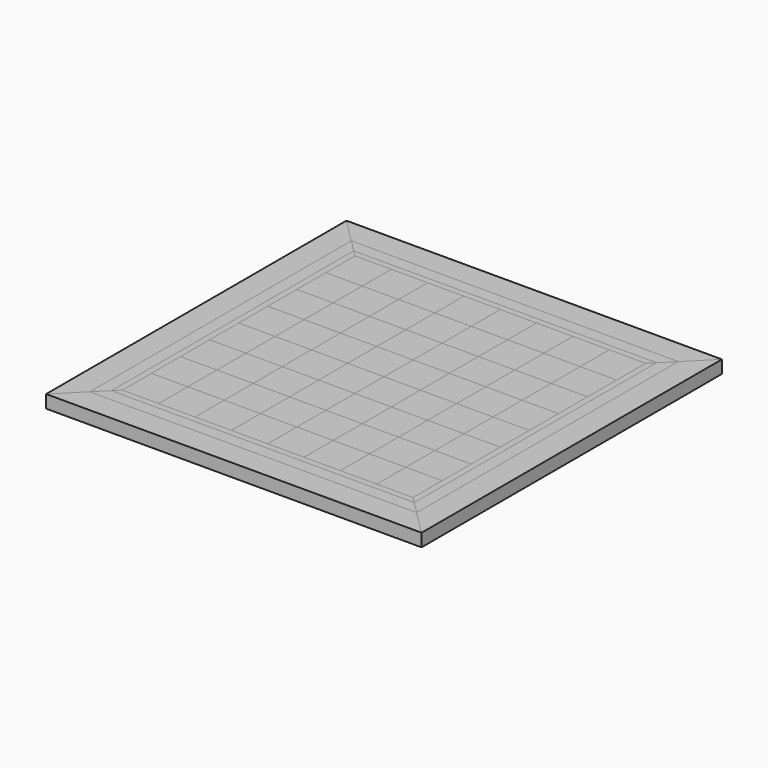
from build123d import *

# Parameters (mm, degrees)
F0_W      = 342.9
F0_H      = 342.9
F1_DEPTH  = 12.7
F2_W      = 38.1
F2_H      = 38.1
F3_DEPTH  = 0.79375
F4_DEPTH  = 0.79375
F5_DEPTH  = 0.79375
F6_DEPTH  = 0.79375
F8_DEPTH  = 13.49375
F9_DEPTH  = 13.49375
F11_DEPTH = 0.79375
F12_DEPTH = 0.79375


with BuildPart() as f1:
    # F0 (on Top) → F1 (new body)
    with BuildSketch(Plane.XY):
        Rectangle(F0_W, F0_H)
    extrude(amount=F1_DEPTH)


with BuildPart() as f3:
    # F2 (on face) → F3 (new body)
    with BuildSketch(Plane.XY.offset(12.7)):
        with Locations((133.35, 133.35)):
            Rectangle(F2_W, F2_H)
    extrude(amount=F3_DEPTH)


with BuildPart() as f3b:
    # F2 (on face) → F3, piece 2 (new body)
    with BuildSketch(Plane.XY.offset(12.7)):
        with Locations((133.35, 57.15)):
            Rectangle(F2_W, F2_H)
    extrude(amount=F3_DEPTH)


with BuildPart() as f3c:
    # F2 (on face) → F3, piece 3 (new body)
    with BuildSketch(Plane.XY.offset(12.7)):
        with Locations((133.35, -19.05)):
            Rectangle(F2_W, F2_H)
    extrude(amount=F3_DEPTH)


with BuildPart() as f3d:
    # F2 (on face) → F3, piece 4 (new body)
    with BuildSketch(Plane.XY.offset(12.7)):
        with Locations((133.35, -95.25)):
            Rectangle(F2_W, F2_H)
    extrude(amount=F3_DEPTH)


with BuildPart() as f3e:
    # F2 (on face) → F3, piece 5 (new body)
    with BuildSketch(Plane.XY.offset(12.7)):
        with Locations((95.25, -133.35)):
            Rectangle(F2_W, F2_H)
    extrude(amount=F3_DEPTH)


with BuildPart() as f3f:
    # F2 (on face) → F3, piece 6 (new body)
    with BuildSketch(Plane.XY.offset(12.7)):
        with Locations((95.25, -57.15)):
            Rectangle(F2_W, F2_H)
    extrude(amount=F3_DEPTH)


with BuildPart() as f3g:
    # F2 (on face) → F3, piece 7 (new body)
    with BuildSketch(Plane.XY.offset(12.7)):
        with Locations((95.25, 19.05)):
            Rectangle(F2_W, F2_H)
    extrude(amount=F3_DEPTH)


with BuildPart() as f3h:
    # F2 (on face) → F3, piece 8 (new body)
    with BuildSketch(Plane.XY.offset(12.7)):
        with Locations((95.25, 95.25)):
            Rectangle(F2_W, F2_H)
    extrude(amount=F3_DEPTH)


with BuildPart() as f3i:
    # F2 (on face) → F3, piece 9 (new body)
    with BuildSketch(Plane.XY.offset(12.7)):
        with Locations((57.15, 133.35)):
            Rectangle(F2_W, F2_H)
    extrude(amount=F3_DEPTH)


with BuildPart() as f3j:
    # F2 (on face) → F3, piece 10 (new body)
    with BuildSketch(Plane.XY.offset(12.7)):
        with Locations((57.15, 57.15)):
            Rectangle(F2_W, F2_H)
    extrude(amount=F3_DEPTH)


with BuildPart() as f3k:
    # F2 (on face) → F3, piece 11 (new body)
    with BuildSketch(Plane.XY.offset(12.7)):
        with Locations((57.15, -19.05)):
            Rectangle(F2_W, F2_H)
    extrude(amount=F3_DEPTH)


with BuildPart() as f3l:
    # F2 (on face) → F3, piece 12 (new body)
    with BuildSketch(Plane.XY.offset(12.7)):
        with Locations((57.15, -95.25)):
            Rectangle(F2_W, F2_H)
    extrude(amount=F3_DEPTH)


with BuildPart() as f3m:
    # F2 (on face) → F3, piece 13 (new body)
    with BuildSketch(Plane.XY.offset(12.7)):
        with Locations((19.05, 95.25)):
            Rectangle(F2_W, F2_H)
    extrude(amount=F3_DEPTH)


with BuildPart() as f3n:
    # F2 (on face) → F3, piece 14 (new body)
    with BuildSketch(Plane.XY.offset(12.7)):
        with Locations((19.05, 19.05)):
            Rectangle(F2_W, F2_H)
    extrude(amount=F3_DEPTH)


with BuildPart() as f3o:
    # F2 (on face) → F3, piece 15 (new body)
    with BuildSketch(Plane.XY.offset(12.7)):
        with Locations((19.05, -57.15)):
            Rectangle(F2_W, F2_H)
    extrude(amount=F3_DEPTH)


with BuildPart() as f3p:
    # F2 (on face) → F3, piece 16 (new body)
    with BuildSketch(Plane.XY.offset(12.7)):
        with Locations((19.05, -133.35)):
            Rectangle(F2_W, F2_H)
    extrude(amount=F3_DEPTH)


with BuildPart() as f3q:
    # F2 (on face) → F3, piece 17 (new body)
    with BuildSketch(Plane.XY.offset(12.7)):
        with Locations((-19.05, -95.25)):
            Rectangle(F2_W, F2_H)
    extrude(amount=F3_DEPTH)


with BuildPart() as f3r:
    # F2 (on face) → F3, piece 18 (new body)
    with BuildSketch(Plane.XY.offset(12.7)):
        with Locations((-19.05, -19.05)):
            Rectangle(F2_W, F2_H)
    extrude(amount=F3_DEPTH)


with BuildPart() as f3s:
    # F2 (on face) → F3, piece 19 (new body)
    with BuildSketch(Plane.XY.offset(12.7)):
        with Locations((-19.05, 57.15)):
            Rectangle(F2_W, F2_H)
    extrude(amount=F3_DEPTH)


with BuildPart() as f3t:
    # F2 (on face) → F3, piece 20 (new body)
    with BuildSketch(Plane.XY.offset(12.7)):
        with Locations((-19.05, 133.35)):
            Rectangle(F2_W, F2_H)
    extrude(amount=F3_DEPTH)


with BuildPart() as f3u:
    # F2 (on face) → F3, piece 21 (new body)
    with BuildSketch(Plane.XY.offset(12.7)):
        with Locations((-57.15, 95.25)):
            Rectangle(F2_W, F2_H)
    extrude(amount=F3_DEPTH)


with BuildPart() as f3v:
    # F2 (on face) → F3, piece 22 (new body)
    with BuildSketch(Plane.XY.offset(12.7)):
        with Locations((-57.15, 19.05)):
            Rectangle(F2_W, F2_H)
    extrude(amount=F3_DEPTH)


with BuildPart() as f3w:
    # F2 (on face) → F3, piece 23 (new body)
    with BuildSketch(Plane.XY.offset(12.7)):
        with Locations((-57.15, -57.15)):
            Rectangle(F2_W, F2_H)
    extrude(amount=F3_DEPTH)


with BuildPart() as f3x:
    # F2 (on face) → F3, piece 24 (new body)
    with BuildSketch(Plane.XY.offset(12.7)):
        with Locations((-57.15, -133.35)):
            Rectangle(F2_W, F2_H)
    extrude(amount=F3_DEPTH)


with BuildPart() as f3y:
    # F2 (on face) → F3, piece 25 (new body)
    with BuildSketch(Plane.XY.offset(12.7)):
        with Locations((-95.25, -95.25)):
            Rectangle(F2_W, F2_H)
    extrude(amount=F3_DEPTH)


with BuildPart() as f3z:
    # F2 (on face) → F3, piece 26 (new body)
    with BuildSketch(Plane.XY.offset(12.7)):
        with Locations((-95.25, -19.05)):
            Rectangle(F2_W, F2_H)
    extrude(amount=F3_DEPTH)


with BuildPart() as f3ba:
    # F2 (on face) → F3, piece 27 (new body)
    with BuildSketch(Plane.XY.offset(12.7)):
        with Locations((-95.25, 57.15)):
            Rectangle(F2_W, F2_H)
    extrude(amount=F3_DEPTH)


with BuildPart() as f3bb:
    # F2 (on face) → F3, piece 28 (new body)
    with BuildSketch(Plane.XY.offset(12.7)):
        with Locations((-95.25, 133.35)):
            Rectangle(F2_W, F2_H)
    extrude(amount=F3_DEPTH)


with BuildPart() as f3bc:
    # F2 (on face) → F3, piece 29 (new body)
    with BuildSketch(Plane.XY.offset(12.7)):
        with Locations((-133.35, 95.25)):
            Rectangle(F2_W, F2_H)
    extrude(amount=F3_DEPTH)


with BuildPart() as f3bd:
    # F2 (on face) → F3, piece 30 (new body)
    with BuildSketch(Plane.XY.offset(12.7)):
        with Locations((-133.35, 19.05)):
            Rectangle(F2_W, F2_H)
    extrude(amount=F3_DEPTH)


with BuildPart() as f3be:
    # F2 (on face) → F3, piece 31 (new body)
    with BuildSketch(Plane.XY.offset(12.7)):
        with Locations((-133.35, -57.15)):
            Rectangle(F2_W, F2_H)
    extrude(amount=F3_DEPTH)


with BuildPart() as f3bf:
    # F2 (on face) → F3, piece 32 (new body)
    with BuildSketch(Plane.XY.offset(12.7)):
        with Locations((-133.35, -133.35)):
            Rectangle(F2_W, F2_H)
    extrude(amount=F3_DEPTH)


with BuildPart() as f4:
    # F2 (on face) → F4 (new body)
    with BuildSketch(Plane.XY.offset(12.7)):
        with Locations((133.35, 95.25)):
            Rectangle(F2_W, F2_H)
    extrude(amount=F4_DEPTH)


with BuildPart() as f4b:
    # F2 (on face) → F4, piece 2 (new body)
    with BuildSketch(Plane.XY.offset(12.7)):
        with Locations((133.35, 19.05)):
            Rectangle(F2_W, F2_H)
    extrude(amount=F4_DEPTH)


with BuildPart() as f4c:
    # F2 (on face) → F4, piece 3 (new body)
    with BuildSketch(Plane.XY.offset(12.7)):
        with Locations((133.35, -57.15)):
            Rectangle(F2_W, F2_H)
    extrude(amount=F4_DEPTH)


with BuildPart() as f4d:
    # F2 (on face) → F4, piece 4 (new body)
    with BuildSketch(Plane.XY.offset(12.7)):
        with Locations((133.35, -133.35)):
            Rectangle(F2_W, F2_H)
    extrude(amount=F4_DEPTH)


with BuildPart() as f4e:
    # F2 (on face) → F4, piece 5 (new body)
    with BuildSketch(Plane.XY.offset(12.7)):
        with Locations((95.25, -19.05)):
            Rectangle(F2_W, F2_H)
    extrude(amount=F4_DEPTH)


with BuildPart() as f4f:
    # F2 (on face) → F4, piece 6 (new body)
    with BuildSketch(Plane.XY.offset(12.7)):
        with Locations((95.25, 57.15)):
            Rectangle(F2_W, F2_H)
    extrude(amount=F4_DEPTH)


with BuildPart() as f4g:
    # F2 (on face) → F4, piece 7 (new body)
    with BuildSketch(Plane.XY.offset(12.7)):
        with Locations((95.25, 133.35)):
            Rectangle(F2_W, F2_H)
    extrude(amount=F4_DEPTH)


with BuildPart() as f4h:
    # F2 (on face) → F4, piece 8 (new body)
    with BuildSketch(Plane.XY.offset(12.7)):
        with Locations((57.15, 95.25)):
            Rectangle(F2_W, F2_H)
    extrude(amount=F4_DEPTH)


with BuildPart() as f4i:
    # F2 (on face) → F4, piece 9 (new body)
    with BuildSketch(Plane.XY.offset(12.7)):
        with Locations((57.15, 19.05)):
            Rectangle(F2_W, F2_H)
    extrude(amount=F4_DEPTH)


with BuildPart() as f4j:
    # F2 (on face) → F4, piece 10 (new body)
    with BuildSketch(Plane.XY.offset(12.7)):
        with Locations((57.15, -57.15)):
            Rectangle(F2_W, F2_H)
    extrude(amount=F4_DEPTH)


with BuildPart() as f4k:
    # F2 (on face) → F4, piece 11 (new body)
    with BuildSketch(Plane.XY.offset(12.7)):
        with Locations((57.15, -133.35)):
            Rectangle(F2_W, F2_H)
    extrude(amount=F4_DEPTH)


with BuildPart() as f4l:
    # F2 (on face) → F4, piece 12 (new body)
    with BuildSketch(Plane.XY.offset(12.7)):
        with Locations((95.25, -95.25)):
            Rectangle(F2_W, F2_H)
    extrude(amount=F4_DEPTH)


with BuildPart() as f4m:
    # F2 (on face) → F4, piece 13 (new body)
    with BuildSketch(Plane.XY.offset(12.7)):
        with Locations((19.05, -95.25)):
            Rectangle(F2_W, F2_H)
    extrude(amount=F4_DEPTH)


with BuildPart() as f4n:
    # F2 (on face) → F4, piece 14 (new body)
    with BuildSketch(Plane.XY.offset(12.7)):
        with Locations((19.05, -19.05)):
            Rectangle(F2_W, F2_H)
    extrude(amount=F4_DEPTH)


with BuildPart() as f4o:
    # F2 (on face) → F4, piece 15 (new body)
    with BuildSketch(Plane.XY.offset(12.7)):
        with Locations((19.05, 57.15)):
            Rectangle(F2_W, F2_H)
    extrude(amount=F4_DEPTH)


with BuildPart() as f4p:
    # F2 (on face) → F4, piece 16 (new body)
    with BuildSketch(Plane.XY.offset(12.7)):
        with Locations((19.05, 133.35)):
            Rectangle(F2_W, F2_H)
    extrude(amount=F4_DEPTH)


with BuildPart() as f4q:
    # F2 (on face) → F4, piece 17 (new body)
    with BuildSketch(Plane.XY.offset(12.7)):
        with Locations((-19.05, 95.25)):
            Rectangle(F2_W, F2_H)
    extrude(amount=F4_DEPTH)


with BuildPart() as f4r:
    # F2 (on face) → F4, piece 18 (new body)
    with BuildSketch(Plane.XY.offset(12.7)):
        with Locations((-19.05, 19.05)):
            Rectangle(F2_W, F2_H)
    extrude(amount=F4_DEPTH)


with BuildPart() as f4s:
    # F2 (on face) → F4, piece 19 (new body)
    with BuildSketch(Plane.XY.offset(12.7)):
        with Locations((-19.05, -57.15)):
            Rectangle(F2_W, F2_H)
    extrude(amount=F4_DEPTH)


with BuildPart() as f4t:
    # F2 (on face) → F4, piece 20 (new body)
    with BuildSketch(Plane.XY.offset(12.7)):
        with Locations((-19.05, -133.35)):
            Rectangle(F2_W, F2_H)
    extrude(amount=F4_DEPTH)


with BuildPart() as f4u:
    # F2 (on face) → F4, piece 21 (new body)
    with BuildSketch(Plane.XY.offset(12.7)):
        with Locations((-57.15, -95.25)):
            Rectangle(F2_W, F2_H)
    extrude(amount=F4_DEPTH)


with BuildPart() as f4v:
    # F2 (on face) → F4, piece 22 (new body)
    with BuildSketch(Plane.XY.offset(12.7)):
        with Locations((-57.15, -19.05)):
            Rectangle(F2_W, F2_H)
    extrude(amount=F4_DEPTH)


with BuildPart() as f4w:
    # F2 (on face) → F4, piece 23 (new body)
    with BuildSketch(Plane.XY.offset(12.7)):
        with Locations((-57.15, 57.15)):
            Rectangle(F2_W, F2_H)
    extrude(amount=F4_DEPTH)


with BuildPart() as f4x:
    # F2 (on face) → F4, piece 24 (new body)
    with BuildSketch(Plane.XY.offset(12.7)):
        with Locations((-57.15, 133.35)):
            Rectangle(F2_W, F2_H)
    extrude(amount=F4_DEPTH)


with BuildPart() as f4y:
    # F2 (on face) → F4, piece 25 (new body)
    with BuildSketch(Plane.XY.offset(12.7)):
        with Locations((-95.25, 95.25)):
            Rectangle(F2_W, F2_H)
    extrude(amount=F4_DEPTH)


with BuildPart() as f4z:
    # F2 (on face) → F4, piece 26 (new body)
    with BuildSketch(Plane.XY.offset(12.7)):
        with Locations((-95.25, 19.05)):
            Rectangle(F2_W, F2_H)
    extrude(amount=F4_DEPTH)


with BuildPart() as f4ba:
    # F2 (on face) → F4, piece 27 (new body)
    with BuildSketch(Plane.XY.offset(12.7)):
        with Locations((-95.25, -57.15)):
            Rectangle(F2_W, F2_H)
    extrude(amount=F4_DEPTH)


with BuildPart() as f4bb:
    # F2 (on face) → F4, piece 28 (new body)
    with BuildSketch(Plane.XY.offset(12.7)):
        with Locations((-95.25, -133.35)):
            Rectangle(F2_W, F2_H)
    extrude(amount=F4_DEPTH)


with BuildPart() as f4bc:
    # F2 (on face) → F4, piece 29 (new body)
    with BuildSketch(Plane.XY.offset(12.7)):
        with Locations((-133.35, -95.25)):
            Rectangle(F2_W, F2_H)
    extrude(amount=F4_DEPTH)


with BuildPart() as f4bd:
    # F2 (on face) → F4, piece 30 (new body)
    with BuildSketch(Plane.XY.offset(12.7)):
        with Locations((-133.35, -19.05)):
            Rectangle(F2_W, F2_H)
    extrude(amount=F4_DEPTH)


with BuildPart() as f4be:
    # F2 (on face) → F4, piece 31 (new body)
    with BuildSketch(Plane.XY.offset(12.7)):
        with Locations((-133.35, 57.15)):
            Rectangle(F2_W, F2_H)
    extrude(amount=F4_DEPTH)


with BuildPart() as f4bf:
    # F2 (on face) → F4, piece 32 (new body)
    with BuildSketch(Plane.XY.offset(12.7)):
        with Locations((-133.35, 133.35)):
            Rectangle(F2_W, F2_H)
    extrude(amount=F4_DEPTH)


with BuildPart() as f5:
    # F2 (on face) → F5 (new body)
    with BuildSketch(Plane.XY.offset(12.7)):
        Polygon((158.75, 158.75), (152.4, 152.4), (152.4, 114.3), (152.4, 76.2), (152.4, 38.1), (152.4, 0), (152.4, -38.1), (152.4, -76.2), (152.4, -114.3), (152.4, -152.4), (158.75, -158.75), align=None)
    extrude(amount=F5_DEPTH)


with BuildPart() as f5b:
    # F2 (on face) → F5, piece 2 (new body)
    with BuildSketch(Plane.XY.offset(12.7)):
        Polygon((-152.4, 152.4), (-158.75, 158.75), (-158.75, -158.75), (-152.4, -152.4), (-152.4, -114.3), (-152.4, -76.2), (-152.4, -38.1), (-152.4, 0), (-152.4, 38.1), (-152.4, 76.2), (-152.4, 114.3), align=None)
    extrude(amount=F5_DEPTH)


with BuildPart() as f6:
    # F2 (on face) → F6 (new body)
    with BuildSketch(Plane.XY.offset(12.7)):
        Polygon((171.45, -171.45), (158.75, -158.75), (-158.75, -158.75), (-171.45, -171.45), align=None)
    extrude(amount=F6_DEPTH)


with BuildPart() as f6b:
    # F2 (on face) → F6, piece 2 (new body)
    with BuildSketch(Plane.XY.offset(12.7)):
        Polygon((-158.75, 158.75), (158.75, 158.75), (171.45, 171.45), (-171.45, 171.45), align=None)
    extrude(amount=F6_DEPTH)


with BuildPart() as f8:
    # F7 (on face) → F8 (new body)
    with BuildSketch(Plane(origin=(0, 0, 0), x_dir=(1, 0, 0), z_dir=(0, 0, -1))):
        Polygon((-196.85, -196.85), (-171.45, -171.45), (-171.45, 171.45), (-196.85, 196.85), align=None)
    extrude(amount=-F8_DEPTH)


with BuildPart() as f8b:
    # F7 (on face) → F8, piece 2 (new body)
    with BuildSketch(Plane(origin=(0, 0, 0), x_dir=(1, 0, 0), z_dir=(0, 0, -1))):
        Polygon((171.45, 171.45), (171.45, -171.45), (196.85, -196.85), (196.85, 196.85), align=None)
    extrude(amount=-F8_DEPTH)


with BuildPart() as f9:
    # F7 (on face) → F9 (new body)
    with BuildSketch(Plane(origin=(0, 0, 0), x_dir=(1, 0, 0), z_dir=(0, 0, -1))):
        Polygon((196.85, -196.85), (171.45, -171.45), (-171.45, -171.45), (-196.85, -196.85), align=None)
    extrude(amount=-F9_DEPTH)


with BuildPart() as f9b:
    # F7 (on face) → F9, piece 2 (new body)
    with BuildSketch(Plane(origin=(0, 0, 0), x_dir=(1, 0, 0), z_dir=(0, 0, -1))):
        Polygon((-171.45, 171.45), (171.45, 171.45), (196.85, 196.85), (-196.85, 196.85), align=None)
    extrude(amount=-F9_DEPTH)


with BuildPart() as f11:
    # F2 (on face) → F11 (new body)
    with BuildSketch(Plane.XY.offset(12.7)):
        Polygon((-158.75, -158.75), (-158.75, 158.75), (-171.45, 171.45), (-171.45, -171.45), align=None)
    extrude(amount=F11_DEPTH)


with BuildPart() as f11b:
    # F2 (on face) → F11, piece 2 (new body)
    with BuildSketch(Plane.XY.offset(12.7)):
        Polygon((171.45, 171.45), (158.75, 158.75), (158.75, -158.75), (171.45, -171.45), align=None)
    extrude(amount=F11_DEPTH)


with BuildPart() as f12:
    # F2 (on face) → F12 (new body)
    with BuildSketch(Plane.XY.offset(12.7)):
        Polygon((-158.75, -158.75), (158.75, -158.75), (152.4, -152.4), (114.3, -152.4), (76.2, -152.4), (38.1, -152.4), (0, -152.4), (-38.1, -152.4), (-76.2, -152.4), (-114.3, -152.4), (-152.4, -152.4), align=None)
    extrude(amount=F12_DEPTH)


with BuildPart() as f12b:
    # F2 (on face) → F12, piece 2 (new body)
    with BuildSketch(Plane.XY.offset(12.7)):
        Polygon((114.3, 152.4), (152.4, 152.4), (158.75, 158.75), (-158.75, 158.75), (-152.4, 152.4), (-114.3, 152.4), (-76.2, 152.4), (-38.1, 152.4), (0, 152.4), (38.1, 152.4), (76.2, 152.4), align=None)
    extrude(amount=F12_DEPTH)


solid = Compound([f1.part, f3.part, f3b.part, f3c.part, f3d.part, f3e.part, f3f.part, f3g.part, f3h.part, f3i.part, f3j.part, f3k.part, f3l.part, f3m.part, f3n.part, f3o.part, f3p.part, f3q.part, f3r.part, f3s.part, f3t.part, f3u.part, f3v.part, f3w.part, f3x.part, f3y.part, f3z.part, f3ba.part, f3bb.part, f3bc.part, f3bd.part, f3be.part, f3bf.part, f4.part, f4b.part, f4c.part, f4d.part, f4e.part, f4f.part, f4g.part, f4h.part, f4i.part, f4j.part, f4k.part, f4l.part, f4m.part, f4n.part, f4o.part, f4p.part, f4q.part, f4r.part, f4s.part, f4t.part, f4u.part, f4v.part, f4w.part, f4x.part, f4y.part, f4z.part, f4ba.part, f4bb.part, f4bc.part, f4bd.part, f4be.part, f4bf.part, f5.part, f5b.part, f6.part, f6b.part, f8.part, f8b.part, f9.part, f9b.part, f11.part, f11b.part, f12.part, f12b.part])
